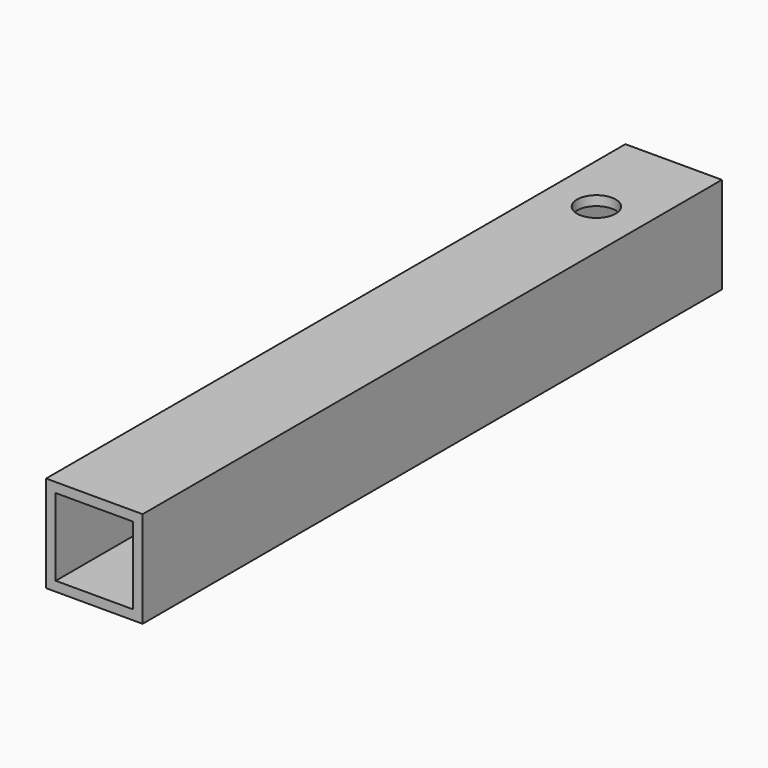
from build123d import *

# Parameters (mm, degrees)
F0_W     = 40
F0_H     = 300
F1_DEPTH = 40
F2_T     = -4
F4_D     = 16
F4_DEPTH = 4
F6_D     = 13
F6_DEPTH = 4


with BuildPart() as f1:
    # F0 (on Top) → F1 (new body)
    with BuildSketch(Plane.XY):
        with Locations((-3.103449, 115.204206)):
            Rectangle(F0_W, F0_H)
    extrude(amount=F1_DEPTH)

    # F2
    f2_openings = [f1.faces().sort_by_distance(p)[0] for p in [
        (-3.103449, -34.795794, 20),
    ]]
    offset(amount=F2_T, openings=f2_openings)

    # F4
    with Locations(Plane.XY.offset(40)):
        with Locations((-3.103449, 225.204206)):
            Hole(F4_D / 2, depth=F4_DEPTH)

    # F6
    with Locations(Plane(origin=(0, 0, 0), x_dir=(1, 0, 0), z_dir=(0, 0, -1))):
        with Locations((-3.103449, -225.204206)):
            Hole(F6_D / 2, depth=F6_DEPTH)


solid = f1.part
